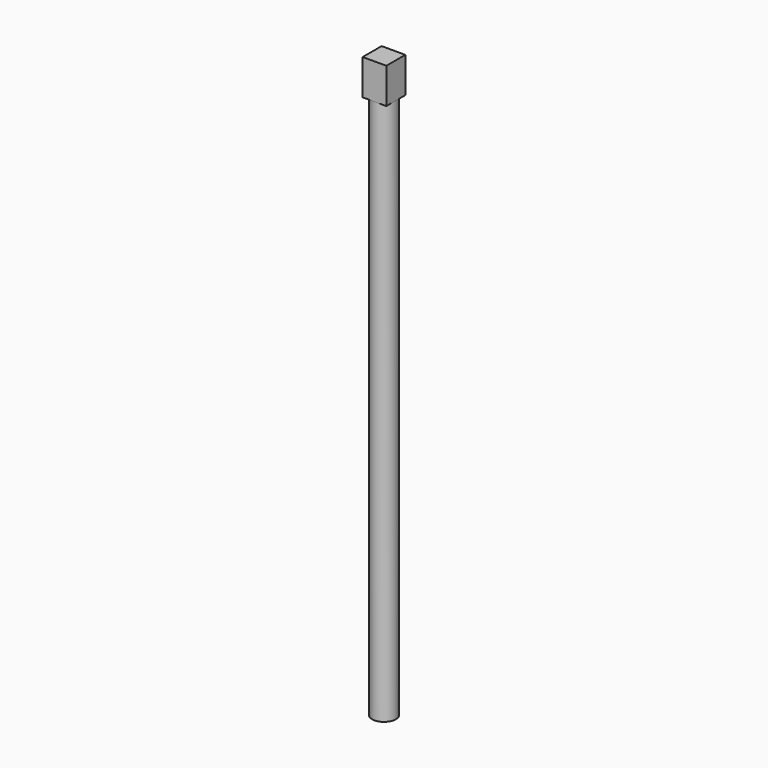
from build123d import *

# Parameters (mm, degrees)
F0_R     = 5
F1_DEPTH = 230
F3_DEPTH = 15


with BuildPart() as f1:
    # F0 (on Top) → F1 (new body)
    with BuildSketch(Plane.XY):
        Circle(F0_R)
    extrude(amount=F1_DEPTH)

    # F2 (on face) → F3 (join)
    with BuildSketch(Plane.XY.offset(230)):
        with BuildLine():
            ThreePointArc((-5, 0), (-3.535534, 3.535534), (0, 5))
            Line((0, 5), (-5, 5))
            Line((-5, 5), (-5, 0))
        make_face()
        with BuildLine():
            Line((5, 0), (5, 5))
            Line((5, 5), (0, 5))
            ThreePointArc((0, 5), (3.535534, 3.535534), (5, 0))
        make_face()
        with BuildLine():
            ThreePointArc((5, 0), (3.535534, 3.535534), (0, 5))
            ThreePointArc((0, 5), (-3.535534, 3.535534), (-5, 0))
            ThreePointArc((-5, 0), (-3.535534, -3.535534), (0, -5))
            ThreePointArc((0, -5), (3.535534, -3.535534), (5, 0))
        make_face()
        with BuildLine():
            Line((5, -5), (5, 0))
            ThreePointArc((5, 0), (3.535534, -3.535534), (0, -5))
            Line((0, -5), (5, -5))
        make_face()
        with BuildLine():
            ThreePointArc((0, -5), (-3.535534, -3.535534), (-5, 0))
            Line((-5, 0), (-5, -5))
            Line((-5, -5), (0, -5))
        make_face()
    extrude(amount=F3_DEPTH)


solid = f1.part
